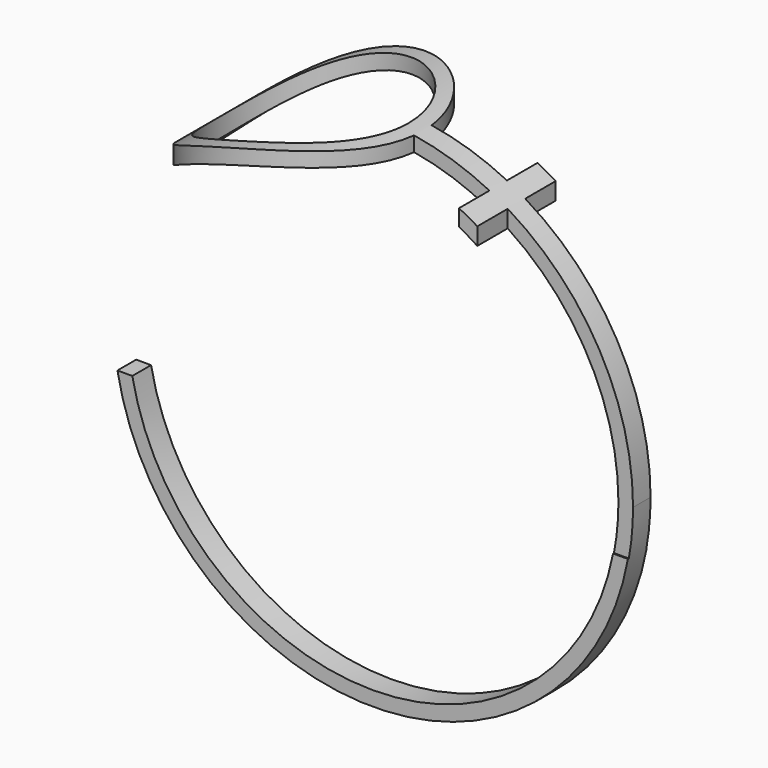
from build123d import *

# Parameters (mm, degrees)
F0_R     = 35.5
F0_R_2   = 33.5
F1_DEPTH = 50.8
F3_R     = 13
F4_DEPTH = 44.45
F6_DEPTH = 38.1


with BuildPart() as f1:
    # F0 (on Front) → F1 (new body)
    with BuildSketch(Plane.XZ):
        Circle(F0_R)
        Circle(F0_R_2, mode=Mode.SUBTRACT)
    extrude(amount=F1_DEPTH)

    # F3 (on offset) → F4 (cut)
    with BuildSketch(Plane.XY.offset(38.1)):
        with BuildLine():
            ThreePointArc((5.538755, -28.298548), (-24.386056, -26.798548), (5.538755, -25.298548))
            Line((5.538755, -25.298548), (15.851872, -25.298548))
            Line((15.851872, -25.298548), (15.851872, -20.093698))
            Line((15.851872, -20.093698), (18.351872, -20.093698))
            Line((18.351872, -20.093698), (18.351872, -25.298548))
            Line((18.351872, -25.298548), (35.634305, -25.298548))
            Line((35.634305, -25.298548), (35.634305, 3.781537))
            Line((35.634305, 3.781537), (-42.059839, 3.781537))
            Line((-42.059839, 3.781537), (-40.54736, -55.053797))
            Line((-40.54736, -55.053797), (35.634305, -53.095396))
            Line((35.634305, -53.095396), (35.634305, -28.298548))
            Line((35.634305, -28.298548), (18.351872, -28.298548))
            Line((18.351872, -28.298548), (18.351872, -33.503398))
            Line((18.351872, -33.503398), (15.851872, -33.503398))
            Line((15.851872, -33.503398), (15.851872, -28.298548))
            Line((15.851872, -28.298548), (5.538755, -28.298548))
        make_face()
        with Locations((-9.386056, -26.798548)):
            Circle(F3_R)
    extrude(amount=-F4_DEPTH, mode=Mode.SUBTRACT)

    # F5 (on Right) → F6 (cut, symmetric)
    with BuildSketch(Plane.YZ):
        Polygon((-28.453713, -37.598766), (-28.453713, -6.049039), (-52.303165, -5.728194), (-52.303165, -37.598766), align=None)
        Polygon((4.118928, -6.049039), (-25.245266, -6.049039), (-25.245266, -37.270404), (5.401779, -37.682697), align=None)
    extrude(amount=F6_DEPTH, both=True, mode=Mode.SUBTRACT)


solid = f1.part
